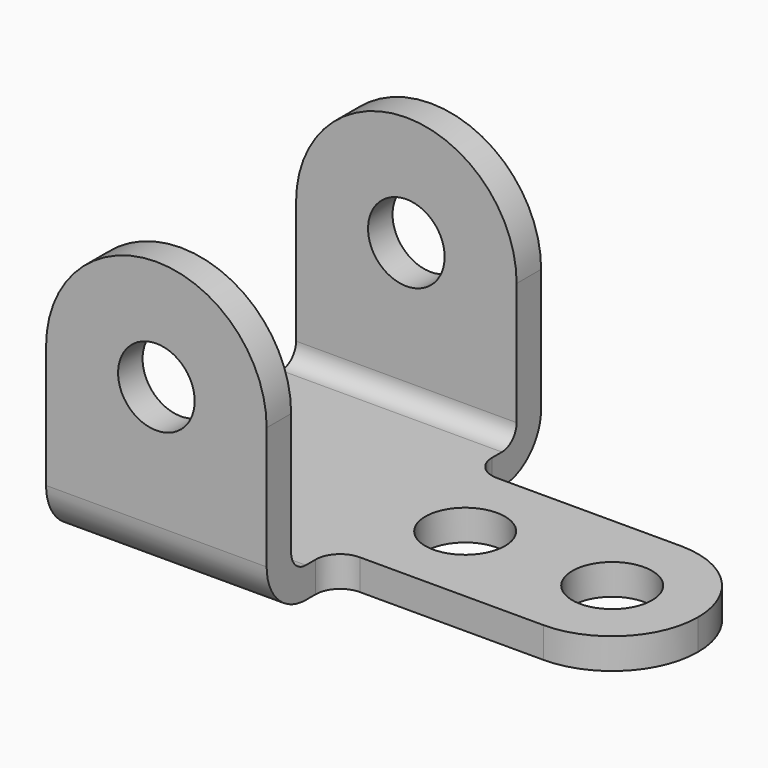
from build123d import *

# Parameters (mm, degrees)
F0_R     = 9.92251
F0_W     = 76.2
F0_H     = 7.9375
F1_DEPTH = 88.9
F2_R     = 10.3251
F3_DEPTH = 7.9385
F5_DEPTH = 133.351


with BuildPart() as f1:
    # F0 (on Front) → F1 (new body)
    with BuildSketch(Plane.XZ):
        with BuildLine():
            Line((0, 44.45), (0, 0))
            Line((0, 0), (57.15, 0))
            Line((57.15, 0), (57.15, 7.9375))
            Line((57.15, 7.9375), (57.15, 44.45))
            ThreePointArc((57.15, 44.45), (28.575, 73.025), (0, 44.45))
        make_face()
        with Locations((28.575, 44.45)):
            Circle(F0_R, mode=Mode.SUBTRACT)
        with Locations((95.25, 3.96875)):
            Rectangle(F0_W, F0_H)
    extrude(amount=F1_DEPTH)

    # F2 (on face) → F3 (cut, through all)
    with BuildSketch(Plane.XY.offset(7.9375)):
        with Locations((73.025, -44.45)):
            Circle(F2_R)
        with Locations((111.125, -44.45)):
            Circle(F2_R)
        with BuildLine():
            Line((133.35, 0), (57.15, 0))
            Line((57.15, 0), (57.15, -15.875))
            ThreePointArc((57.15, -15.875), (59.009872, -20.365128), (63.5, -22.225))
            Line((63.5, -22.225), (111.125, -22.225))
            ThreePointArc((111.125, -22.225), (126.840448, -28.734552), (133.35, -44.45))
            Line((133.35, -44.45), (133.35, 0))
        make_face()
        with BuildLine():
            Line((133.35, -88.9), (133.35, -44.45))
            ThreePointArc((133.35, -44.45), (126.840448, -60.165448), (111.125, -66.675))
            Line((111.125, -66.675), (63.5, -66.675))
            ThreePointArc((63.5, -66.675), (59.009872, -68.534872), (57.15, -73.025))
            Line((57.15, -73.025), (57.15, -88.9))
            Line((57.15, -88.9), (133.35, -88.9))
        make_face()
    extrude(amount=-F3_DEPTH, mode=Mode.SUBTRACT)

    # F4 (on Right) → F5 (cut, through all)
    with BuildSketch(Plane.YZ):
        with BuildLine():
            Line((-7.9375, 73.025), (-80.9625, 73.025))
            Line((-80.9625, 73.025), (-80.9625, 12.7))
            ThreePointArc((-80.9625, 12.7), (-79.567596, 9.332404), (-76.2, 7.9375))
            Line((-76.2, 7.9375), (-12.7, 7.9375))
            ThreePointArc((-12.7, 7.9375), (-9.332404, 9.332404), (-7.9375, 12.7))
            Line((-7.9375, 12.7), (-7.9375, 73.025))
        make_face()
        with BuildLine():
            ThreePointArc((-76.2, 0), (-85.180256, 3.719744), (-88.9, 12.7))
            Line((-88.9, 12.7), (-88.9, 0))
            Line((-88.9, 0), (-76.2, 0))
        make_face()
        with BuildLine():
            Line((-12.7, 0), (0, 0))
            Line((0, 0), (0, 12.7))
            ThreePointArc((0, 12.7), (-3.719744, 3.719744), (-12.7, 0))
        make_face()
    extrude(amount=F5_DEPTH, mode=Mode.SUBTRACT)


solid = f1.part
